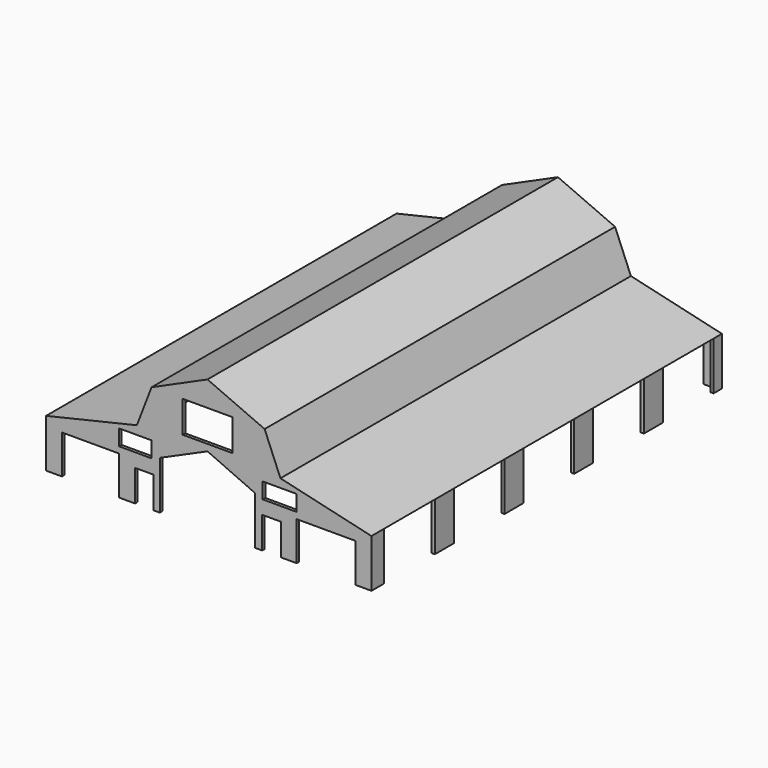
from build123d import *

# Parameters (mm, degrees)
F1_DEPTH = 351.282
F2_T     = -2.54
F3_W     = 40.0430839509
F3_H     = 25.3932625055
F3_W_2   = 14.9065516889
F3_H_2   = 25.1731947064
F4_DEPTH = 508
F5_W     = 50.8
F5_H     = 38.6911868118
F6_DEPTH = 558.8
F7_W     = 45.9006593287
F7_H     = 31.1064030975
F7_W_2   = 25.9576785982
F7_H_2   = 12.7
F7_W_3   = 27.178
F7_W_4   = 47.3086998522
F8_DEPTH = 762


with BuildPart() as f1:
    # F0 (on Front) → F1 (new body)
    with BuildSketch(Plane.XZ):
        Polygon((-44.8798835278, 55.2486851811), (-56.6415078938, 24.6065575629), (-129.4382214546, 7.5847837143), (-129.4382214546, -31.1064030975), (131.4852535725, -31.1064030975), (131.4852535725, 7.5847837143), (58.4986023605, 24.6065575629), (45.8084307611, 55.2486851811), (0, 75.367256999), align=None)
    extrude(amount=-F1_DEPTH)

    # F2
    f2_openings = [f1.faces().sort_by_distance(p)[0] for p in [
        (1.023516, 175.641, -31.106403),
    ]]
    offset(amount=F2_T, openings=f2_openings, kind=Kind.INTERSECTION)

    # F3 (on face) → F4 (cut)
    with BuildSketch(Plane(origin=(0, 351.282, 0), x_dir=(-1, 0, 0), z_dir=(0, 1, 0))):
        with Locations((-0.1733517274, 42.5520539284)):
            Rectangle(F3_W, F3_H)
        with Locations((50.6842862815, -18.5198057443)):
            Rectangle(F3_W_2, F3_H_2)
        with Locations((-51.3232778758, -18.5198057443)):
            Rectangle(F3_W_2, F3_H_2)
        Polygon((-38.0242951214, -31.1064030975), (0, -31.1064030975), (38.2621623576, -31.1064030975), (38.2621623576, 7.5847837143), (0, 24.6065575629), (-38.0242951214, 7.5847837143), align=None)
    extrude(amount=-F4_DEPTH, mode=Mode.SUBTRACT)

    # F5 (on face) → F6 (cut)
    with BuildSketch(Plane.YZ.offset(131.4852535725)):
        with Locations((38.1, -11.7608096916)):
            Rectangle(F5_W, F5_H)
        with Locations((107.95, -11.7608096916)):
            Rectangle(F5_W, F5_H)
        with Locations((177.8, -11.7608096916)):
            Rectangle(F5_W, F5_H)
        with Locations((247.65, -11.7608096916)):
            Rectangle(F5_W, F5_H)
        with Locations((317.5, -11.7608096916)):
            Rectangle(F5_W, F5_H)
    extrude(amount=-F6_DEPTH, mode=Mode.SUBTRACT)

    # F7 (on face) → F8 (cut)
    with BuildSketch(Plane.XZ):
        with Locations((-93.7878917903, -15.5532015488)):
            Rectangle(F7_W, F7_H)
        with Locations((-57.8587228268, 11.43)):
            Rectangle(F7_W_2, F7_H_2)
        with Locations((57.8875537202, 11.43)):
            Rectangle(F7_W_3, F7_H_2)
        with Locations((95.1309036463, -15.5532015488)):
            Rectangle(F7_W_4, F7_H)
    extrude(amount=-F8_DEPTH, mode=Mode.SUBTRACT)


solid = f1.part
